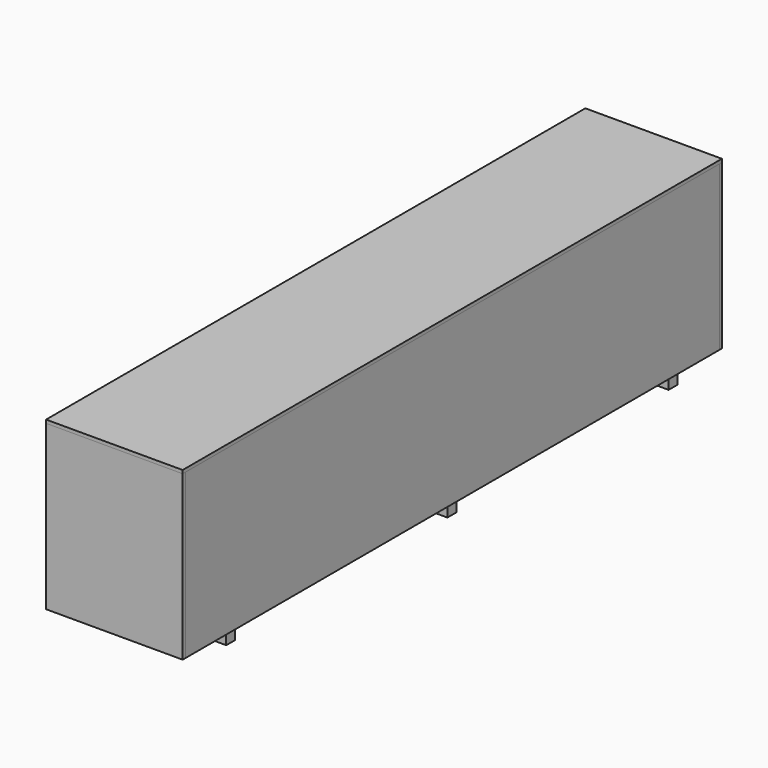
from build123d import *

# Parameters (mm, degrees)
F1_DEPTH  = 380
F2_W      = 300
F2_H      = 47
F3_DEPTH  = 2300.001
F4_W      = 380
F4_H      = 375
F5_DEPTH  = 185
F6_W      = 180
F6_H      = 140
F7_DEPTH  = 5
F8_W      = 180
F8_H      = 160
F9_DEPTH  = 5
F10_R     = 12.5
F11_DEPTH = 50
F12_W     = 470
F12_H     = 2414
F13_DEPTH = 12
F15_DEPTH = 12
F17_W     = 40
F17_H     = 44
F18_DEPTH = 430
F19_W     = 40
F19_H     = 44
F20_DEPTH = 470
F22_W     = 380
F22_H     = 44
F23_DEPTH = 40
F29_W     = 494
F29_H     = 592
F30_DEPTH = 12
F32_W     = 494
F32_H     = 2438
F33_DEPTH = 12


with BuildPart() as f1:
    # F0 (on Right) → F1 (new body)
    with BuildSketch(Plane.YZ):
        Polygon((1150, 195), (-1150, 195), (-1150, -195), (-1110, -195), (-1110, -148), (-460, -148), (-460, -195), (-420, -195), (-420, -148), (420, -148), (420, -195), (460, -195), (460, -148), (1110, -148), (1110, -195), (1150, -195), align=None)
    extrude(amount=F1_DEPTH)

    # F2 (on face) → F3 (cut, through all)
    with BuildSketch(Plane.XZ.offset(1150)):
        with Locations((190, -171.5)):
            Rectangle(F2_W, F2_H)
    extrude(amount=-F3_DEPTH, mode=Mode.SUBTRACT)

    # F4 (on face) → F5 (join)
    with BuildSketch(Plane.XY.offset(195)):
        with Locations((190, -532.5)):
            Rectangle(F4_W, F4_H)
    extrude(amount=F5_DEPTH)

    # F6 (on face) → F7 (join)
    with BuildSketch(Plane.XZ.offset(1150)):
        with Locations((190, 25)):
            Rectangle(F6_W, F6_H)
    extrude(amount=F7_DEPTH)

    # F8 (on face) → F9 (join)
    with BuildSketch(Plane(origin=(0, 1150, 0), x_dir=(-1, 0, 0), z_dir=(0, 1, 0))):
        with Locations((-190, 15)):
            Rectangle(F8_W, F8_H)
    extrude(amount=F9_DEPTH)

    # F10 (on face) → F11 (join)
    with BuildSketch(Plane(origin=(0, 0, 0), x_dir=(0, -1, 0), z_dir=(-1, 0, 0))):
        with Locations((399.394094944, 319.2632198334)):
            Circle(F10_R)
        with Locations((664.9678945541, 313.3615851402)):
            Circle(F10_R)
        with Locations((796.2793707848, 162.1320694685)):
            Circle(F10_R)
    extrude(amount=F11_DEPTH)


with BuildPart() as f13:
    # F12 (on face) → F13 (new body)
    with BuildSketch(Plane(origin=(0, 0, -195), x_dir=(1, 0, 0), z_dir=(0, 0, -1))):
        with Locations((185, -12)):
            Rectangle(F12_W, F12_H)
    extrude(amount=F13_DEPTH)


with BuildPart() as f15:
    # F14 (on face) → F15 (new body)
    with BuildSketch(Plane.YZ.offset(420)):
        Polygon((1219, 385), (-1195, 385), (-1195, -195), (-1195, -207), (1219, -207), (1219, -195), align=None)
    extrude(amount=F15_DEPTH)


with BuildPart() as f16_1:
    # F16: copy of F15
    add(f15.part.moved(Location((-482, 0, 0))))


with BuildPart() as f18:
    # F17 (on face) → F18 (new body)
    with BuildSketch(Plane.XY.offset(-195)):
        with Locations((400, -1068)):
            Rectangle(F17_W, F17_H)
    extrude(amount=F18_DEPTH)


with BuildPart() as f20:
    # F19 (on face) → F20 (new body, through all)
    with BuildSketch(Plane.YZ.offset(420)):
        with Locations((-975, -229)):
            Rectangle(F19_W, F19_H)
    extrude(amount=-F20_DEPTH)


with BuildPart() as f20b:
    # F19 (on face) → F20, piece 2 (new body, through all)
    with BuildSketch(Plane.YZ.offset(420)):
        with Locations((25, -229)):
            Rectangle(F19_W, F19_H)
    extrude(amount=-F20_DEPTH)


with BuildPart() as f20c:
    # F19 (on face) → F20, piece 3 (new body, through all)
    with BuildSketch(Plane.YZ.offset(420)):
        with Locations((1025, -229)):
            Rectangle(F19_W, F19_H)
    extrude(amount=-F20_DEPTH)


with BuildPart() as f21_1:
    # F21: copy of F18
    add(f18.part.moved(Location((-420, 0, 0))))


with BuildPart() as f23:
    # F22 (on face) → F23 (new body)
    with BuildSketch(Plane.XY.offset(235)):
        with Locations((190, -1068)):
            Rectangle(F22_W, F22_H)
    extrude(amount=-F23_DEPTH)


with BuildPart() as f24_1:
    # F24: copy of F23
    add(f23.part.moved(Location((0, 1050, 0))))


with BuildPart() as f24_2:
    # F24: copy of F21_1
    add(f21_1.part.moved(Location((0, 1050, 0))))


with BuildPart() as f24_3:
    # F24: copy of F18
    add(f18.part.moved(Location((0, 1050, 0))))


with BuildPart() as f25_1:
    # F25: copy of F23
    add(f23.part.moved(Location((0, 2080, 0))))


with BuildPart() as f25_2:
    # F25: copy of F21_1
    add(f21_1.part.moved(Location((0, 2080, 0))))


with BuildPart() as f25_3:
    # F25: copy of F18
    add(f18.part.moved(Location((0, 2080, 0))))


with BuildPart() as f26_1:
    # F26: copy of F18
    add(f18.part.moved(Location((-60, -104, 0))))


with BuildPart() as f27_1:
    # F27: copy of F21_1
    add(f21_1.part.moved(Location((60, -104, 0))))


with BuildPart() as f28_1:
    # F28: copy of F27_1
    add(f27_1.part.moved(Location((0, 2344, 0))))


with BuildPart() as f28_2:
    # F28: copy of F26_1
    add(f26_1.part.moved(Location((0, 2344, 0))))


with BuildPart() as f30:
    # F29 (on face) → F30 (new body)
    with BuildSketch(Plane.XZ.offset(1195)):
        with Locations((185, 89)):
            Rectangle(F29_W, F29_H)
    extrude(amount=F30_DEPTH)


with BuildPart() as f31_1:
    # F31: copy of F30
    add(f30.part.moved(Location((0, 2426, 0))))


with BuildPart() as f33:
    # F32 (on face) → F33 (new body)
    with BuildSketch(Plane.XY.offset(385)):
        with Locations((185, 12)):
            Rectangle(F32_W, F32_H)
    extrude(amount=F33_DEPTH)


solid = Compound([f1.part, f13.part, f15.part, f16_1.part, f18.part, f20.part, f20b.part, f20c.part, f21_1.part, f23.part, f24_1.part, f24_2.part, f24_3.part, f25_1.part, f25_2.part, f25_3.part, f26_1.part, f27_1.part, f28_1.part, f28_2.part, f30.part, f31_1.part, f33.part])
